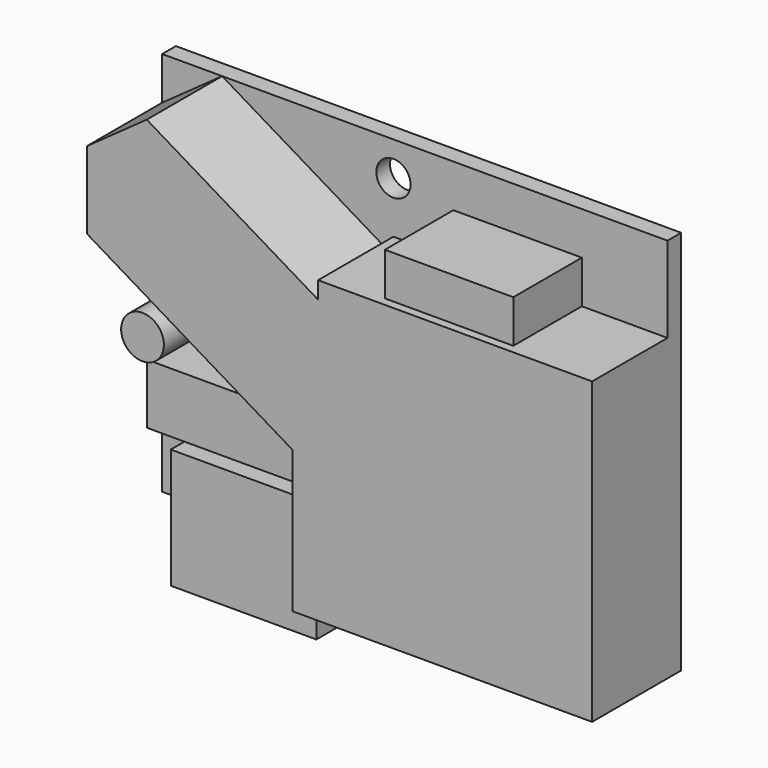
from build123d import *

# Parameters (mm, degrees)
F0_W     = 17
F0_H     = 6
F1_DEPTH = 2
F3_DEPTH = 11
F2_W     = 15
F2_H     = 5
F4_DEPTH = 10
F5_D     = 4
F5_DEPTH = 6
F2_W_2   = 20
F2_H_2   = 7
F6_DEPTH = 6
F2_R     = 2.495167
F7_DEPTH = 10
F0_H_2   = 8
F8_DEPTH = 7


with BuildPart() as f1:
    # F0 (on Front) → F1 (new body)
    with BuildSketch(Plane.XZ):
        Polygon((29.5, 22.5), (-29.5, 22.5), (-29.5, -22.5), (-24.5, -22.5), (-24.5, -14.5), (-7.5, -14.5), (-7.5, -22.5), (29.5, -22.5), align=None)
        with Locations((-16, -25.5)):
            Rectangle(F0_W, F0_H)
    extrude(amount=F1_DEPTH)

    # F2 (on face) → F3 (join)
    with BuildSketch(Plane.XZ.offset(2)):
        Polygon((-2.5, 2.5), (-5.5, 2.5), (-5.5, -5.9), (-5.5, -22.5), (29.5, -22.5), (29.5, 2.5), align=None)
        Polygon((-5.5, -5.9), (-5.5, 2.5), (-2.5, 2.5), (-2.5, 10.5), (-5.5, 12.3), (-22.5, 22.5), (-29.5, 17.5), (-29.5, 8.5), align=None)
        Polygon((-2.5, 10.5), (-2.5, 2.5), (29.5, 2.5), (29.5, 12.5), (19.5, 12.5), (4.5, 12.5), (-2.5, 12.5), align=None)
    extrude(amount=F3_DEPTH)

    # F2 (on face) → F4 (join)
    with BuildSketch(Plane.XZ.offset(2)):
        with Locations((12, 15)):
            Rectangle(F2_W, F2_H)
    extrude(amount=F4_DEPTH)

    # F5
    with Locations(Plane.XZ.offset(2)):
        with Locations((-2.5, 18.5)):
            Hole(F5_D / 2, depth=F5_DEPTH)

    # F2 (on face) → F6 (join)
    with BuildSketch(Plane.XZ.offset(2)):
        with Locations((-16.5, -9)):
            Rectangle(F2_W_2, F2_H_2)
    extrude(amount=F6_DEPTH)

    # F2 (on face) → F7 (join)
    with BuildSketch(Plane.XZ.offset(2)):
        with Locations((-23.798013, -0.678133)):
            Circle(F2_R)
    extrude(amount=F7_DEPTH)

    # F0 (on Front) → F8 (join)
    with BuildSketch(Plane.XZ):
        with Locations((-16, -25.5)):
            Rectangle(F0_W, F0_H)
        with Locations((-16, -18.5)):
            Rectangle(F0_W, F0_H_2)
    extrude(amount=F8_DEPTH)


solid = f1.part
